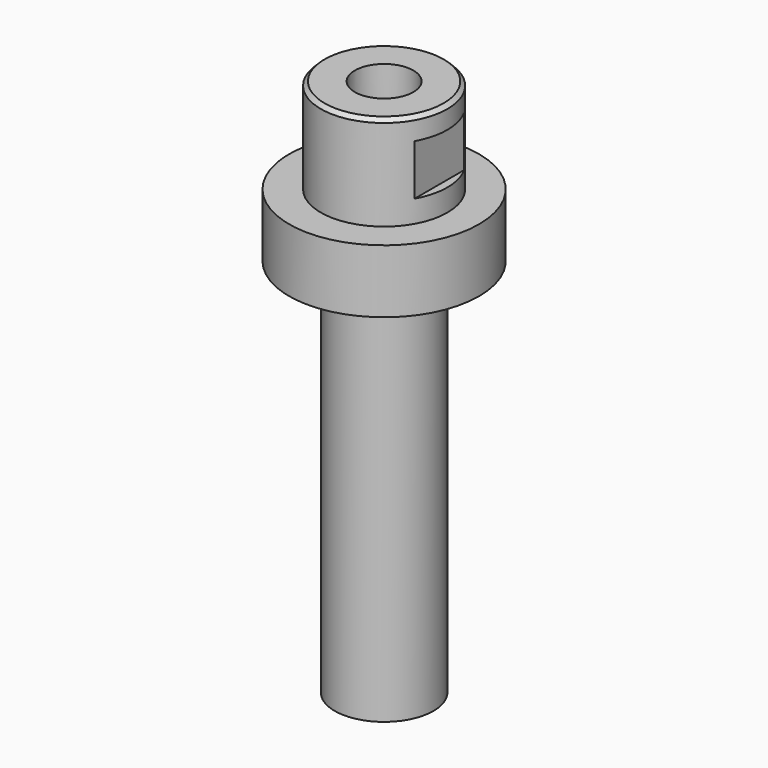
from build123d import *

# Parameters (mm, degrees)
F4_SIZE  = 0.381
F5_W     = 1.5875
F5_H     = 5.08
F6_DEPTH = 12.7


with BuildPart() as f1:
    # F0 (on Front) → F1 (revolve)
    with BuildSketch(Plane.XZ):
        Polygon((0, 53.975), (0, 0), (4.953, 0), (4.953, 38.1), (9.525, 38.1), (9.525, 44.45), (6.35, 44.45), (6.35, 53.975), align=None)
    revolve(axis=Axis((0, 0, 26.9875), (0, 0, 1)))

    # F2 (on Front) → F3 (revolve, cut)
    with BuildSketch(Plane.XZ):
        Polygon((0, -0.254), (4.064, -0.254), (4.064, 2.286), (2.814903, 3.175), (2.939943, 55.497955), (0, 55.50498), (0, 53.903468), (0, 51.516321), align=None)
    revolve(axis=Axis((0, 0, 26.824734), (0, 0, 1)), mode=Mode.SUBTRACT)

    # F4
    f4_edges = [f1.edges().sort_by_distance(p)[0] for p in [
        (-6.35, 0, 53.975),
    ]]
    chamfer(f4_edges, length=F4_SIZE)

    # F5 (on Front) → F6 (cut, symmetric)
    with BuildSketch(Plane.XZ):
        with Locations((6.33095, 49.2125)):
            Rectangle(F5_W, F5_H)
    extrude(amount=F6_DEPTH, both=True, mode=Mode.SUBTRACT)


solid = f1.part
